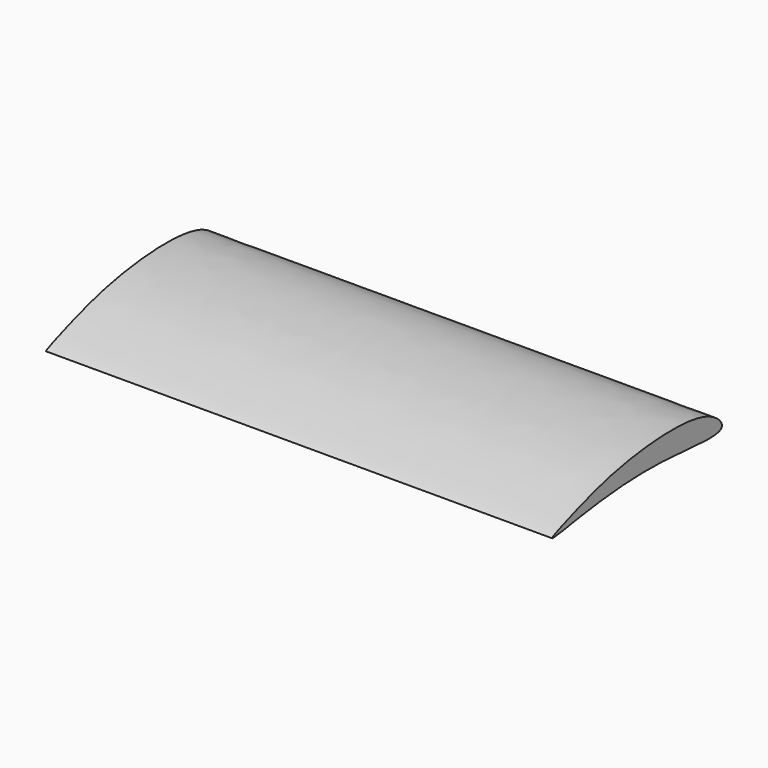
from build123d import *

# Parameters (mm, degrees)
F1_DEPTH = 38.1


with BuildPart() as f1:
    # F0 (on Right) → F1 (new body)
    with BuildSketch(Plane.YZ):
        with BuildLine():
            add(Edge.make_bspline(
                [(7.8607987701, -0.404680683), (8.0535451764, -0.1153120841), (6.3994603739, 1.6864271918), (-1.1986519348, 1.2227081084), (-5.4665583928, -0.1635251896), (-9.2451249569, -1.569027539), (-4.5272492567, -0.6745536492), (1.844204143, -0.0466801089), (7.525089605, -0.9086780992), (7.8607987701, -0.404680683)],
                knots=[0, 0, 0, 0, 0.0899153586, 0.2780129053, 0.4358476102, 0.5368708164, 0.6501891862, 0.8433931374, 1, 1, 1, 1], degree=3))
        make_face()
    extrude(amount=F1_DEPTH)


solid = f1.part
